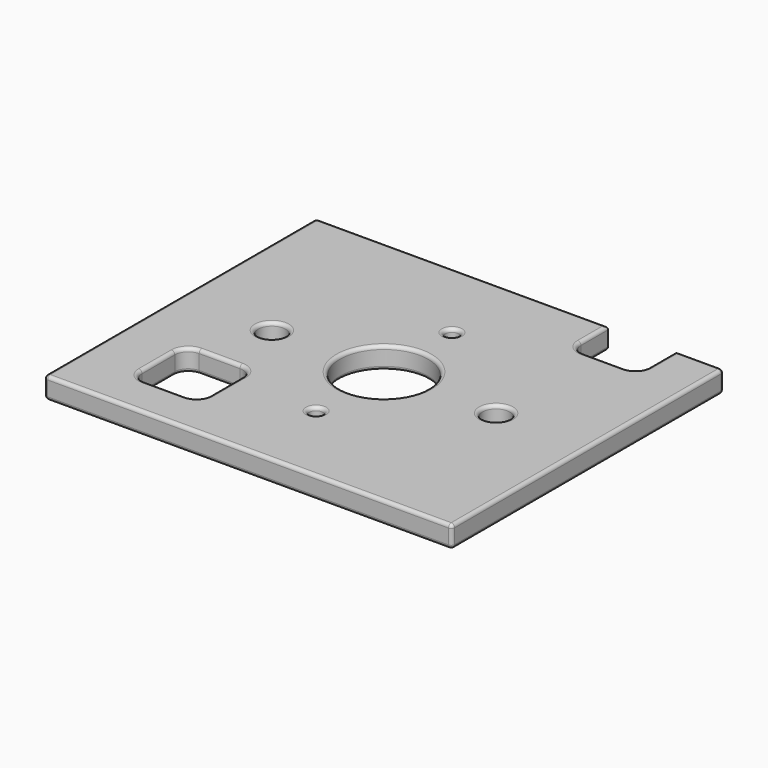
from build123d import *

# Parameters (mm, degrees)
F0_W     = 5
F0_H     = 5
F0_R     = 0.5
F0_R_2   = 1
F0_R_3   = 3.25
F1_DEPTH = 1.5875
F2_R     = 1
F3_R     = 0.25


with BuildPart() as f1:
    # F0 (on Top) → F1 (new body)
    with BuildSketch(Plane.XY):
        Polygon((0, 25), (0, 0), (30, 0), (30, 25), (26.5, 25), (26.5, 21.5), (21.5, 21.5), (21.5, 25), align=None)
        with Locations((6.5, 5.5)):
            Rectangle(F0_W, F0_H, mode=Mode.SUBTRACT)
        with Locations((15, 6.25)):
            Circle(F0_R, mode=Mode.SUBTRACT)
        with Locations((6.75, 12.5)):
            Circle(F0_R_2, mode=Mode.SUBTRACT)
        with Locations((15, 12.5)):
            Circle(F0_R_3, mode=Mode.SUBTRACT)
        with Locations((23.25, 12.5)):
            Circle(F0_R_2, mode=Mode.SUBTRACT)
        with Locations((15, 18.75)):
            Circle(F0_R, mode=Mode.SUBTRACT)
    extrude(amount=F1_DEPTH)

    # F2
    f2_edges = [f1.edges().sort_by_distance(p)[0] for p in [
        (4, 8, 0.79375),
        (9, 8, 0.79375),
        (9, 3, 0.79375),
        (4, 3, 0.79375),
        (21.5, 21.5, 0.79375),
        (26.5, 21.5, 0.79375),
    ]]
    fillet(f2_edges, radius=F2_R)

    # F3
    f3_edges = [f1.edges().sort_by_distance(p)[0] for p in [
        (5.75, 12.5, 1.5875),
        (5.75, 12.5, 0),
        (14.5, 18.75, 1.5875),
        (14.5, 18.75, 0),
        (22.25, 12.5, 1.5875),
        (14.5, 6.25, 1.5875),
        (14.5, 6.25, 0),
        (11.75, 12.5, 1.5875),
        (11.75, 12.5, 0),
        (6.5, 8, 1.5875),
        (4.292893, 7.707107, 1.5875),
        (21.5, 23.75, 1.5875),
        (28.25, 25, 1.5875),
        (10.75, 25, 1.5875),
        (0, 12.5, 1.5875),
        (0, 25, 0.79375),
        (30, 25, 0.79375),
        (30, 0, 0.79375),
        (0, 0, 0.79375),
        (15, 0, 1.5875),
        (30, 12.5, 1.5875),
        (24, 21.5, 0),
        (26.207107, 21.792893, 0),
        (28.25, 25, 0),
        (30, 12.5, 0),
        (15, 0, 0),
        (0, 12.5, 0),
        (10.75, 25, 0),
        (6.5, 3, 0),
    ]]
    fillet(f3_edges, radius=F3_R)


solid = f1.part
